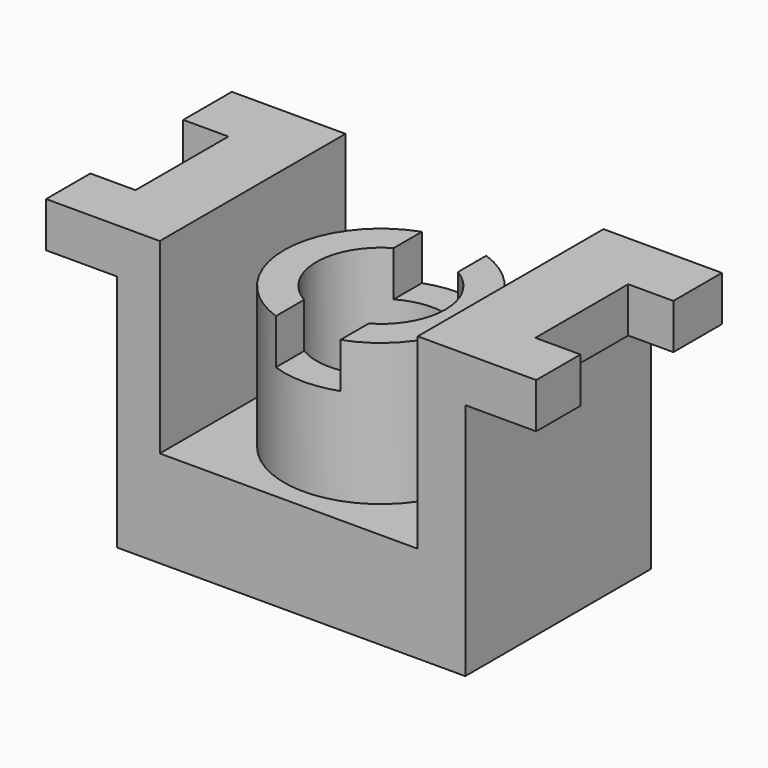
from build123d import *

# Parameters (mm, degrees)
F0_W      = 54
F0_H      = 36
F1_DEPTH  = 44
F2_W      = 40
F2_H      = 29
F3_DEPTH  = 36
F4_W      = 11
F4_H      = 36
F5_DEPTH  = 7
F6_W      = 7
F6_H      = 18
F7_DEPTH  = 7
F8_W      = 11
F8_H      = 36
F9_DEPTH  = 7
F10_W     = 7
F10_H     = 18
F11_DEPTH = 7
F12_R     = 15
F13_DEPTH = 22
F14_R     = 10
F15_DEPTH = 40
F17_DEPTH = 7


with BuildPart() as f1:
    # F0 (on Top) → F1 (new body)
    with BuildSketch(Plane.XY):
        with Locations((12.5230278373, -18.4144742489)):
            Rectangle(F0_W, F0_H)
    extrude(amount=F1_DEPTH)

    # F2 (on face) → F3 (cut)
    with BuildSketch(Plane.XZ.offset(36.4144742489)):
        with Locations((12.1546047553, 29.5)):
            Rectangle(F2_W, F2_H)
    extrude(amount=-F3_DEPTH, mode=Mode.SUBTRACT)

    # F4 (on face) → F5 (join)
    with BuildSketch(Plane.XY.offset(44)):
        with Locations((45.0230278373, -18.4144742489)):
            Rectangle(F4_W, F4_H)
    extrude(amount=-F5_DEPTH)

    # F6 (on face) → F7 (cut)
    with BuildSketch(Plane.XY.offset(44)):
        with Locations((47.0230278373, -18.8289485723)):
            Rectangle(F6_W, F6_H)
    extrude(amount=-F7_DEPTH, mode=Mode.SUBTRACT)

    # F8 (on face) → F9 (join)
    with BuildSketch(Plane.XY.offset(44)):
        with Locations((-19.9769721627, -18.4144742489)):
            Rectangle(F8_W, F8_H)
    extrude(amount=-F9_DEPTH)

    # F10 (on face) → F11 (cut)
    with BuildSketch(Plane.XY.offset(44)):
        with Locations((-21.9769721627, -18.8289485723)):
            Rectangle(F10_W, F10_H)
    extrude(amount=-F11_DEPTH, mode=Mode.SUBTRACT)

    # F12 (on face) → F13 (join)
    with BuildSketch(Plane.XY.offset(15)):
        with Locations((11.9901327416, -18.3494538069)):
            Circle(F12_R)
    extrude(amount=F13_DEPTH)

    # F14 (on face) → F15 (cut)
    with BuildSketch(Plane.XY.offset(37)):
        with Locations((11.9901327416, -18.3494538069)):
            Circle(F14_R)
    extrude(amount=-F15_DEPTH, mode=Mode.SUBTRACT)

    # F16 (on face) → F17 (cut)
    with BuildSketch(Plane.XY.offset(37)):
        with BuildLine():
            ThreePointArc((17.0230269432, -4.2189911126), (12.0250223229, -3.349494383), (7.0230269432, -4.1957313288))
            Line((7.0230269432, -4.1957313288), (7.0230269432, -9.6702914056))
            ThreePointArc((7.0230269432, -9.6702914056), (12.0281157852, -8.3495259427), (17.0230269432, -9.7082747232))
            Line((17.0230269432, -9.7082747232), (17.0230269432, -4.2189911126))
        make_face()
        with BuildLine():
            Line((7.0230269432, -27.0286162081), (7.0230269432, -32.503176285))
            ThreePointArc((7.0230269432, -32.503176285), (12.0250223229, -33.3494132307), (17.0230269432, -32.4799165012))
            Line((17.0230269432, -32.4799165012), (17.0230269432, -26.9906328905))
            ThreePointArc((17.0230269432, -26.9906328905), (12.0281157852, -28.349381671), (7.0230269432, -27.0286162081))
        make_face()
    extrude(amount=-F17_DEPTH, mode=Mode.SUBTRACT)


solid = f1.part
